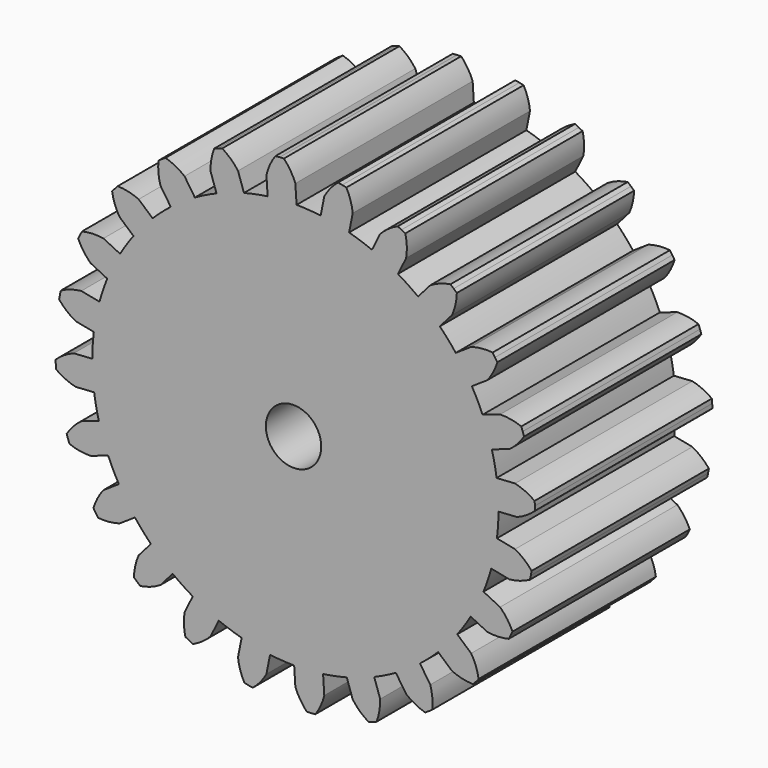
from build123d import *

# Parameters (mm, degrees)
F0_R     = 3.175
F1_DEPTH = 25.4


with BuildPart() as f1:
    # F0 (on Front) → F1 (new body)
    with BuildSketch(Plane.XZ):
        with BuildLine():
            ThreePointArc((23.490182, 0.055239), (23.490492, 0.124633), (23.490596, 0.194028))
            ThreePointArc((23.490596, 0.194028), (23.436104, 1.786042), (23.272882, 3.370605))
            ThreePointArc((23.272882, 3.370605), (23.043221, 4.736298), (22.732772, 6.085922))
            ThreePointArc((22.732772, 6.085922), (22.254975, 7.678074), (21.664796, 9.232077))
            ThreePointArc((21.664796, 9.232077), (21.089493, 10.491796), (20.440313, 11.715082))
            ThreePointArc((20.440313, 11.715082), (19.566718, 13.12932), (18.594443, 14.477622))
            ThreePointArc((18.594443, 14.477622), (17.712704, 15.545517), (16.769035, 16.559101))
            ThreePointArc((16.769035, 16.559101), (15.559175, 17.699047), (14.271063, 18.749763))
            ThreePointArc((14.271063, 18.749763), (13.142978, 19.55306), (11.969128, 20.287867))
            ThreePointArc((11.969128, 20.287867), (10.505454, 21.075835), (8.989288, 21.757362))
            ThreePointArc((8.989288, 21.757362), (7.691732, 22.241317), (6.367699, 22.647271))
            ThreePointArc((6.367699, 22.647271), (4.749956, 23.029563), (3.10906, 23.295455))
            ThreePointArc((3.10906, 23.295455), (1.730461, 23.427087), (0.346474, 23.476524))
            ThreePointArc((0.346474, 23.476524), (-1.315089, 23.427087), (-2.968891, 23.259224))
            ThreePointArc((-2.968891, 23.259224), (-4.334585, 23.029563), (-5.684208, 22.719114))
            ThreePointArc((-5.684208, 22.719114), (-7.27636, 22.241317), (-8.830364, 21.651138))
            ThreePointArc((-8.830364, 21.651138), (-10.090082, 21.075835), (-11.313368, 20.426656))
            ThreePointArc((-11.313368, 20.426656), (-12.727606, 19.55306), (-14.075908, 18.580785))
            ThreePointArc((-14.075908, 18.580785), (-15.143803, 17.699047), (-16.157387, 16.755377))
            ThreePointArc((-16.157387, 16.755377), (-17.297333, 15.545517), (-18.348049, 14.257405))
            ThreePointArc((-18.348049, 14.257405), (-19.151346, 13.12932), (-19.886153, 11.955471))
            ThreePointArc((-19.886153, 11.955471), (-20.674121, 10.491796), (-21.355648, 8.97563))
            ThreePointArc((-21.355648, 8.97563), (-21.839603, 7.678074), (-22.245558, 6.354041))
            ThreePointArc((-22.245558, 6.354041), (-22.62785, 4.736298), (-22.893741, 3.095402))
            ThreePointArc((-22.893741, 3.095402), (-23.025374, 1.716803), (-23.07481, 0.332816))
            ThreePointArc((-23.07481, 0.332816), (-23.025374, -1.328747), (-22.85751, -2.982549))
            ThreePointArc((-22.85751, -2.982549), (-22.62785, -4.348242), (-22.3174, -5.697866))
            ThreePointArc((-22.3174, -5.697866), (-21.839603, -7.290018), (-21.249424, -8.844022))
            ThreePointArc((-21.249424, -8.844022), (-20.674121, -10.10374), (-20.024942, -11.327026))
            ThreePointArc((-20.024942, -11.327026), (-19.151346, -12.741264), (-18.179071, -14.089566))
            ThreePointArc((-18.179071, -14.089566), (-17.297333, -15.157461), (-16.353663, -16.171045))
            ThreePointArc((-16.353663, -16.171045), (-15.143803, -17.310991), (-13.855692, -18.361707))
            ThreePointArc((-13.855692, -18.361707), (-12.727606, -19.165004), (-11.553757, -19.899811))
            ThreePointArc((-11.553757, -19.899811), (-10.090082, -20.687779), (-8.573916, -21.369306))
            ThreePointArc((-8.573916, -21.369306), (-7.27636, -21.853261), (-5.952327, -22.259215))
            ThreePointArc((-5.952327, -22.259215), (-4.334585, -22.641507), (-2.693689, -22.907399))
            ThreePointArc((-2.693689, -22.907399), (-1.315089, -23.039032), (0.068897, -23.088468))
            ThreePointArc((0.068897, -23.088468), (1.730461, -23.039032), (3.384263, -22.871168))
            ThreePointArc((3.384263, -22.871168), (4.749956, -22.641507), (6.09958, -22.331058))
            ThreePointArc((6.09958, -22.331058), (7.691732, -21.853261), (9.245735, -21.263082))
            ThreePointArc((9.245735, -21.263082), (10.505454, -20.687779), (11.72874, -20.0386))
            ThreePointArc((11.72874, -20.0386), (13.142978, -19.165004), (14.49128, -18.192729))
            ThreePointArc((14.49128, -18.192729), (15.559175, -17.310991), (16.572759, -16.367321))
            ThreePointArc((16.572759, -16.367321), (17.712704, -15.157461), (18.763421, -13.869349))
            ThreePointArc((18.763421, -13.869349), (19.566718, -12.741264), (20.301525, -11.567415))
            ThreePointArc((20.301525, -11.567415), (21.089493, -10.10374), (21.77102, -8.587574))
            ThreePointArc((21.77102, -8.587574), (22.254975, -7.290018), (22.660929, -5.965985))
            ThreePointArc((22.660929, -5.965985), (23.043221, -4.348242), (23.309113, -2.707346))
            ThreePointArc((23.309113, -2.707346), (23.440745, -1.328747), (23.490182, 0.055239))
        make_face()
        Circle(F0_R, mode=Mode.SUBTRACT)
        with BuildLine():
            ThreePointArc((-21.355648, 8.97563), (-20.674121, 10.491796), (-19.886153, 11.955471))
            Line((-19.886153, 11.955471), (-21.789359, 12.894028))
            ThreePointArc((-21.789359, 12.894028), (-23.025079, 12.966804), (-24.251439, 12.798455))
            Line((-24.251439, 12.798455), (-24.474362, 12.365867))
            Line((-24.474362, 12.365867), (-24.68185, 11.925667))
            ThreePointArc((-24.68185, 11.925667), (-24.06885, 10.850246), (-23.258854, 9.914187))
            Line((-23.258854, 9.914187), (-21.355648, 8.97563))
        make_face()
        with BuildLine():
            ThreePointArc((-18.348049, 14.257405), (-17.297333, 15.545517), (-16.157387, 16.755377))
            Line((-16.157387, 16.755377), (-17.752826, 18.15454))
            ThreePointArc((-17.752826, 18.15454), (-18.927604, 18.544664), (-20.155748, 18.699457))
            Line((-20.155748, 18.699457), (-20.483038, 18.339306))
            Line((-20.483038, 18.339306), (-20.797388, 17.967807))
            ThreePointArc((-20.797388, 17.967807), (-20.483615, 16.770374), (-19.943489, 15.656568))
            Line((-19.943489, 15.656568), (-18.348049, 14.257405))
        make_face()
        with BuildLine():
            ThreePointArc((-14.075908, 18.580785), (-12.727606, 19.55306), (-11.313368, 20.426656))
            Line((-11.313368, 20.426656), (-12.492314, 22.191073))
            ThreePointArc((-12.492314, 22.191073), (-13.526091, 22.871959), (-14.672324, 23.339344))
            Line((-14.672324, 23.339344), (-15.081675, 23.076174))
            Line((-15.081675, 23.076174), (-15.481465, 22.798693))
            ThreePointArc((-15.481465, 22.798693), (-15.488302, 21.560851), (-15.254854, 20.345203))
            Line((-15.254854, 20.345203), (-14.075908, 18.580785))
        make_face()
        with BuildLine():
            ThreePointArc((-8.830364, 21.651138), (-7.27636, 22.241317), (-5.684208, 22.719114))
            Line((-5.684208, 22.719114), (-6.366318, 24.728544))
            ThreePointArc((-6.366318, 24.728544), (-7.188643, 25.65379), (-8.174851, 26.401917))
            Line((-8.174851, 26.401917), (-8.638368, 26.253662))
            Line((-8.638368, 26.253662), (-9.096352, 26.089109))
            ThreePointArc((-9.096352, 26.089109), (-9.423333, 24.895215), (-9.512473, 23.660568))
            Line((-9.512473, 23.660568), (-8.830364, 21.651138))
        make_face()
        with BuildLine():
            ThreePointArc((-2.968891, 23.259224), (-1.315089, 23.427087), (0.346474, 23.476524))
            Line((0.346474, 23.476524), (0.207686, 25.594028))
            ThreePointArc((0.207686, 25.594028), (-0.347148, 26.700581), (-1.106122, 27.678465))
            Line((-1.106122, 27.678465), (-1.592216, 27.655228))
            Line((-1.592216, 27.655228), (-2.077184, 27.614818))
            ThreePointArc((-2.077184, 27.614818), (-2.702026, 26.546234), (-3.107679, 25.376727))
            Line((-3.107679, 25.376727), (-2.968891, 23.259224))
        make_face()
        with BuildLine():
            ThreePointArc((3.10906, 23.295455), (4.749956, 23.029563), (6.367699, 22.647271))
            Line((6.367699, 22.647271), (6.78169, 24.728544))
            ThreePointArc((6.78169, 24.728544), (6.532158, 25.940993), (6.05214, 27.081994))
            Line((6.05214, 27.081994), (5.576596, 27.18536))
            Line((5.576596, 27.18536), (5.097693, 27.271845))
            ThreePointArc((5.097693, 27.271845), (4.217572, 26.401393), (3.523051, 25.376727))
            Line((3.523051, 25.376727), (3.10906, 23.295455))
        make_face()
        with BuildLine():
            ThreePointArc((8.989288, 21.757362), (10.505454, 21.075835), (11.969128, 20.287867))
            Line((11.969128, 20.287867), (12.907686, 22.191073))
            ThreePointArc((12.907686, 22.191073), (12.980462, 23.426793), (12.812113, 24.653152))
            Line((12.812113, 24.653152), (12.379525, 24.876076))
            Line((12.379525, 24.876076), (11.939325, 25.083564))
            ThreePointArc((11.939325, 25.083564), (10.863904, 24.470564), (9.927845, 23.660568))
            Line((9.927845, 23.660568), (8.989288, 21.757362))
        make_face()
        with BuildLine():
            ThreePointArc((14.271063, 18.749763), (15.559175, 17.699047), (16.769035, 16.559101))
            Line((16.769035, 16.559101), (18.168198, 18.15454))
            ThreePointArc((18.168198, 18.15454), (18.558322, 19.329318), (18.713115, 20.557462))
            Line((18.713115, 20.557462), (18.352964, 20.884752))
            Line((18.352964, 20.884752), (17.981465, 21.199102))
            ThreePointArc((17.981465, 21.199102), (16.784032, 20.885329), (15.670226, 20.345203))
            Line((15.670226, 20.345203), (14.271063, 18.749763))
        make_face()
        with BuildLine():
            ThreePointArc((18.594443, 14.477622), (19.566718, 13.12932), (20.440313, 11.715082))
            Line((20.440313, 11.715082), (22.204731, 12.894028))
            ThreePointArc((22.204731, 12.894028), (22.885617, 13.927804), (23.353002, 15.074038))
            Line((23.353002, 15.074038), (23.089832, 15.483389))
            Line((23.089832, 15.483389), (22.812351, 15.883179))
            ThreePointArc((22.812351, 15.883179), (21.574509, 15.890016), (20.358861, 15.656568))
            Line((20.358861, 15.656568), (18.594443, 14.477622))
        make_face()
        with BuildLine():
            ThreePointArc((21.664796, 9.232077), (22.254975, 7.678074), (22.732772, 6.085922))
            Line((22.732772, 6.085922), (24.742202, 6.768032))
            ThreePointArc((24.742202, 6.768032), (25.667448, 7.590357), (26.415574, 8.576565))
            Line((26.415574, 8.576565), (26.26732, 9.040082))
            Line((26.26732, 9.040082), (26.102767, 9.498066))
            ThreePointArc((26.102767, 9.498066), (24.908873, 9.825047), (23.674226, 9.914187))
            Line((23.674226, 9.914187), (21.664796, 9.232077))
        make_face()
        with BuildLine():
            ThreePointArc((23.272882, 3.370605), (23.436104, 1.786042), (23.490596, 0.194028))
            ThreePointArc((23.490596, 0.194028), (23.490492, 0.124633), (23.490182, 0.055239))
            Line((23.490182, 0.055239), (25.607686, 0.194028))
            ThreePointArc((25.607686, 0.194028), (26.714239, 0.748862), (27.692123, 1.507836))
            Line((27.692123, 1.507836), (27.668886, 1.99393))
            Line((27.668886, 1.99393), (27.628476, 2.478898))
            ThreePointArc((27.628476, 2.478898), (26.559892, 3.10374), (25.390385, 3.509393))
            Line((25.390385, 3.509393), (23.272882, 3.370605))
        make_face()
        with BuildLine():
            Line((25.390385, -3.121337), (23.309113, -2.707346))
            ThreePointArc((23.309113, -2.707346), (23.043221, -4.348242), (22.660929, -5.965985))
            Line((22.660929, -5.965985), (24.742202, -6.379976))
            ThreePointArc((24.742202, -6.379976), (25.954651, -6.130444), (27.095652, -5.650426))
            Line((27.095652, -5.650426), (27.199018, -5.174882))
            Line((27.199018, -5.174882), (27.285503, -4.695979))
            ThreePointArc((27.285503, -4.695979), (26.415051, -3.815859), (25.390385, -3.121337))
        make_face()
        with BuildLine():
            Line((23.674226, -9.526131), (21.77102, -8.587574))
            ThreePointArc((21.77102, -8.587574), (21.089493, -10.10374), (20.301525, -11.567415))
            Line((20.301525, -11.567415), (22.204731, -12.505972))
            ThreePointArc((22.204731, -12.505972), (23.440451, -12.578748), (24.66681, -12.410399))
            Line((24.66681, -12.410399), (24.889734, -11.977811))
            Line((24.889734, -11.977811), (25.097222, -11.537611))
            ThreePointArc((25.097222, -11.537611), (24.484222, -10.46219), (23.674226, -9.526131))
        make_face()
        with BuildLine():
            Line((20.358861, -15.268512), (18.763421, -13.869349))
            ThreePointArc((18.763421, -13.869349), (17.712704, -15.157461), (16.572759, -16.367321))
            Line((16.572759, -16.367321), (18.168198, -17.766484))
            ThreePointArc((18.168198, -17.766484), (19.342976, -18.156608), (20.57112, -18.311401))
            Line((20.57112, -18.311401), (20.89841, -17.95125))
            Line((20.89841, -17.95125), (21.21276, -17.579751))
            ThreePointArc((21.21276, -17.579751), (20.898987, -16.382318), (20.358861, -15.268512))
        make_face()
        with BuildLine():
            Line((15.670226, -19.957147), (14.49128, -18.192729))
            ThreePointArc((14.49128, -18.192729), (13.142978, -19.165004), (11.72874, -20.0386))
            Line((11.72874, -20.0386), (12.907686, -21.803017))
            ThreePointArc((12.907686, -21.803017), (13.941462, -22.483903), (15.087696, -22.951288))
            Line((15.087696, -22.951288), (15.497047, -22.688118))
            Line((15.497047, -22.688118), (15.896837, -22.410638))
            ThreePointArc((15.896837, -22.410638), (15.903674, -21.172796), (15.670226, -19.957147))
        make_face()
        with BuildLine():
            Line((9.927845, -23.272512), (9.245735, -21.263082))
            ThreePointArc((9.245735, -21.263082), (7.691732, -21.853261), (6.09958, -22.331058))
            Line((6.09958, -22.331058), (6.78169, -24.340488))
            ThreePointArc((6.78169, -24.340488), (7.604015, -25.265734), (8.590223, -26.013861))
            Line((8.590223, -26.013861), (9.05374, -25.865606))
            Line((9.05374, -25.865606), (9.511724, -25.701053))
            ThreePointArc((9.511724, -25.701053), (9.838705, -24.507159), (9.927845, -23.272512))
        make_face()
        with BuildLine():
            Line((3.523051, -24.988672), (3.384263, -22.871168))
            ThreePointArc((3.384263, -22.871168), (1.730461, -23.039032), (0.068897, -23.088468))
            Line((0.068897, -23.088468), (0.207686, -25.205972))
            ThreePointArc((0.207686, -25.205972), (0.76252, -26.312525), (1.521494, -27.290409))
            Line((1.521494, -27.290409), (2.007588, -27.267172))
            Line((2.007588, -27.267172), (2.492556, -27.226762))
            ThreePointArc((2.492556, -27.226762), (3.117398, -26.158178), (3.523051, -24.988672))
        make_face()
        with BuildLine():
            Line((-3.107679, -24.988672), (-2.693689, -22.907399))
            ThreePointArc((-2.693689, -22.907399), (-4.334585, -22.641507), (-5.952327, -22.259215))
            Line((-5.952327, -22.259215), (-6.366318, -24.340488))
            ThreePointArc((-6.366318, -24.340488), (-6.116786, -25.552937), (-5.636768, -26.693938))
            Line((-5.636768, -26.693938), (-5.161224, -26.797304))
            Line((-5.161224, -26.797304), (-4.682322, -26.883789))
            ThreePointArc((-4.682322, -26.883789), (-3.802201, -26.013337), (-3.107679, -24.988672))
        make_face()
        with BuildLine():
            Line((-9.512473, -23.272512), (-8.573916, -21.369306))
            ThreePointArc((-8.573916, -21.369306), (-10.090082, -20.687779), (-11.553757, -19.899811))
            Line((-11.553757, -19.899811), (-12.492314, -21.803017))
            ThreePointArc((-12.492314, -21.803017), (-12.56509, -23.038737), (-12.396741, -24.265097))
            Line((-12.396741, -24.265097), (-11.964153, -24.48802))
            Line((-11.964153, -24.48802), (-11.523953, -24.695508))
            ThreePointArc((-11.523953, -24.695508), (-10.448532, -24.082508), (-9.512473, -23.272512))
        make_face()
        with BuildLine():
            Line((-15.254854, -19.957147), (-13.855692, -18.361707))
            ThreePointArc((-13.855692, -18.361707), (-15.143803, -17.310991), (-16.353663, -16.171045))
            Line((-16.353663, -16.171045), (-17.752826, -17.766484))
            ThreePointArc((-17.752826, -17.766484), (-18.14295, -18.941262), (-18.297743, -20.169406))
            Line((-18.297743, -20.169406), (-17.937592, -20.496696))
            Line((-17.937592, -20.496696), (-17.566093, -20.811046))
            ThreePointArc((-17.566093, -20.811046), (-16.36866, -20.497273), (-15.254854, -19.957147))
        make_face()
        with BuildLine():
            Line((-19.943489, -15.268512), (-18.179071, -14.089566))
            ThreePointArc((-18.179071, -14.089566), (-19.151346, -12.741264), (-20.024942, -11.327026))
            Line((-20.024942, -11.327026), (-21.789359, -12.505972))
            ThreePointArc((-21.789359, -12.505972), (-22.470245, -13.539749), (-22.93763, -14.685982))
            Line((-22.93763, -14.685982), (-22.67446, -15.095333))
            Line((-22.67446, -15.095333), (-22.39698, -15.495123))
            ThreePointArc((-22.39698, -15.495123), (-21.159138, -15.50196), (-19.943489, -15.268512))
        make_face()
        with BuildLine():
            Line((-23.258854, -9.526131), (-21.249424, -8.844022))
            ThreePointArc((-21.249424, -8.844022), (-21.839603, -7.290018), (-22.3174, -5.697866))
            Line((-22.3174, -5.697866), (-24.32683, -6.379976))
            ThreePointArc((-24.32683, -6.379976), (-25.252076, -7.202301), (-26.000203, -8.188509))
            Line((-26.000203, -8.188509), (-25.851948, -8.652026))
            Line((-25.851948, -8.652026), (-25.687395, -9.11001))
            ThreePointArc((-25.687395, -9.11001), (-24.493501, -9.436991), (-23.258854, -9.526131))
        make_face()
        with BuildLine():
            ThreePointArc((-22.85751, -2.982549), (-23.025374, -1.328747), (-23.07481, 0.332816))
            Line((-23.07481, 0.332816), (-25.192314, 0.194028))
            ThreePointArc((-25.192314, 0.194028), (-26.298867, -0.360806), (-27.276751, -1.11978))
            Line((-27.276751, -1.11978), (-27.253515, -1.605874))
            Line((-27.253515, -1.605874), (-27.213104, -2.090842))
            ThreePointArc((-27.213104, -2.090842), (-26.14452, -2.715684), (-24.975014, -3.121337))
            Line((-24.975014, -3.121337), (-22.85751, -2.982549))
        make_face()
        with BuildLine():
            ThreePointArc((-22.893741, 3.095402), (-22.62785, 4.736298), (-22.245558, 6.354041))
            Line((-22.245558, 6.354041), (-24.32683, 6.768032))
            ThreePointArc((-24.32683, 6.768032), (-25.539279, 6.5185), (-26.68028, 6.038482))
            Line((-26.68028, 6.038482), (-26.783646, 5.562938))
            Line((-26.783646, 5.562938), (-26.870131, 5.084035))
            ThreePointArc((-26.870131, 5.084035), (-25.999679, 4.203914), (-24.975014, 3.509393))
            Line((-24.975014, 3.509393), (-22.893741, 3.095402))
        make_face()
    extrude(amount=F1_DEPTH)


solid = f1.part
